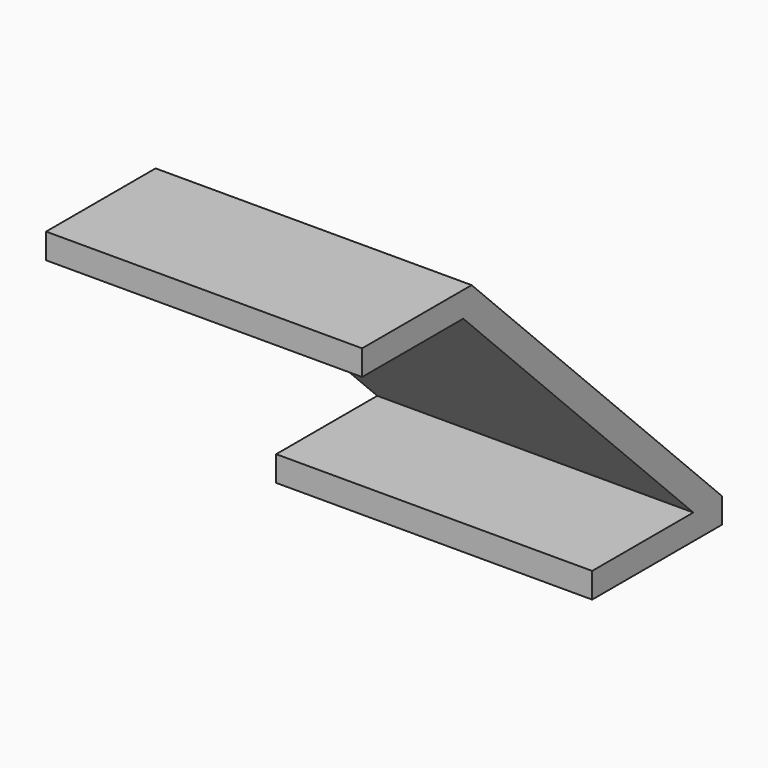
from build123d import *

# Parameters (mm, degrees)
F1_DEPTH = 25


with BuildPart() as f1:
    # F0 (on Right) → F1 (new body)
    with BuildSketch(Plane.YZ):
        Polygon((-49.748737, 24.748737), (-39.748737, 24.748737), (-17, 2), (-27, 2), (-27, 0), (-14.171573, 0), (-14.171573, 2), (-38.92031, 26.748737), (-49.748737, 26.748737), align=None)
    extrude(amount=F1_DEPTH)


solid = f1.part
